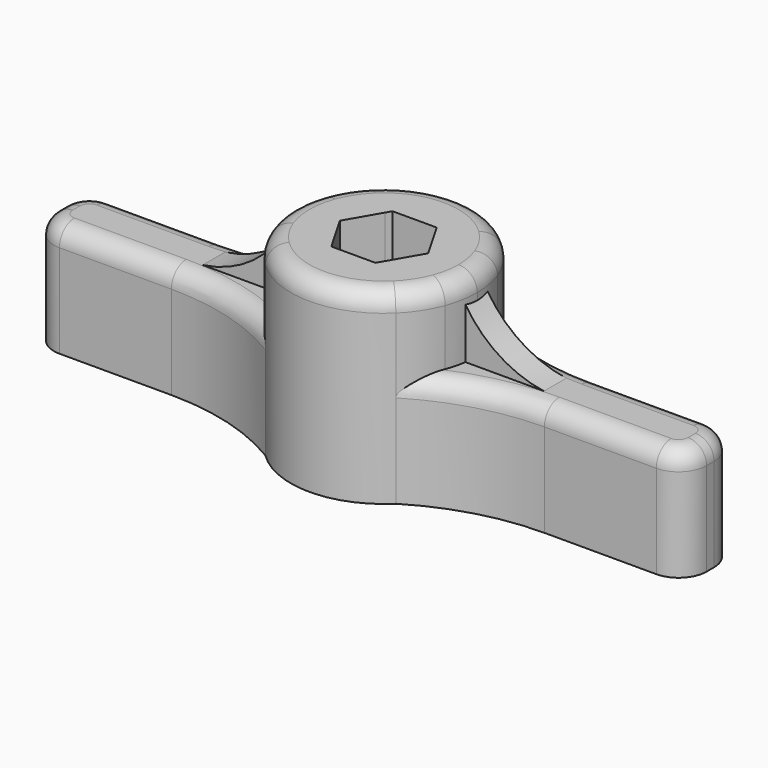
from build123d import *

# Parameters (mm, degrees)
F1_DEPTH = 20
F2_DEPTH = 12
F3_R     = 3
F4_R     = 2
F6_DEPTH = 3


with BuildPart() as f1:
    # F0 (on Top) → F1 (new body)
    with BuildSketch(Plane.XY):
        with BuildLine():
            Line((-2.7276199649, -5.0460615367), (-9.3815706973, -5.0460615367))
            ThreePointArc((-9.3815706973, -5.0460615367), (-8.3933511583, -7.0038733026), (-7.002121491, -8.6991858936))
            ThreePointArc((-7.002121491, -8.6991858936), (-0.0140736997, -11.5460615367), (6.9739740916, -8.6991858936))
            ThreePointArc((6.9739740916, -8.6991858936), (8.3652037588, -7.0038733026), (9.3534232979, -5.0460615367))
            Line((9.3534232979, -5.0460615367), (2.6994725655, -5.0460615367))
            Line((2.6994725655, -5.0460615367), (2.353062404, -5.6460615367))
            Line((2.353062404, -5.6460615367), (-2.3812098034, -5.6460615367))
            Line((-2.3812098034, -5.6460615367), (-2.7276199649, -5.0460615367))
        make_face()
        with BuildLine():
            Line((-2.7276199649, 1.9539384633), (-9.3815706973, 1.9539384633))
            ThreePointArc((-9.3815706973, 1.9539384633), (-10.0140736997, -1.5460615367), (-9.3815706973, -5.0460615367))
            Line((-9.3815706973, -5.0460615367), (-2.7276199649, -5.0460615367))
            Line((-2.7276199649, -5.0460615367), (-4.7483459071, -1.5460615367))
            Line((-4.7483459071, -1.5460615367), (-2.7276199649, 1.9539384633))
        make_face()
        with BuildLine():
            ThreePointArc((-7.002121491, 5.6070628203), (-8.3933511583, 3.9117502293), (-9.3815706973, 1.9539384633))
            Line((-9.3815706973, 1.9539384633), (-2.7276199649, 1.9539384633))
            Line((-2.7276199649, 1.9539384633), (-2.3812098034, 2.5539384633))
            Line((-2.3812098034, 2.5539384633), (2.353062404, 2.5539384633))
            Line((2.353062404, 2.5539384633), (2.6994725655, 1.9539384633))
            Line((2.6994725655, 1.9539384633), (9.3534232979, 1.9539384633))
            ThreePointArc((9.3534232979, 1.9539384633), (8.3652037588, 3.9117502293), (6.9739740916, 5.6070628203))
            ThreePointArc((6.9739740916, 5.6070628203), (-0.0140736997, 8.4539384633), (-7.002121491, 5.6070628203))
        make_face()
        with BuildLine():
            Line((9.3534232979, 1.9539384633), (2.6994725655, 1.9539384633))
            Line((2.6994725655, 1.9539384633), (4.7201985076, -1.5460615367))
            Line((4.7201985076, -1.5460615367), (2.6994725655, -5.0460615367))
            Line((2.6994725655, -5.0460615367), (9.3534232979, -5.0460615367))
            ThreePointArc((9.3534232979, -5.0460615367), (9.8265301937, -3.3244076818), (9.9859263003, -1.5460615367))
            ThreePointArc((9.9859263003, -1.5460615367), (9.8265301937, 0.2322846085), (9.3534232979, 1.9539384633))
        make_face()
    extrude(amount=F1_DEPTH)

    # F0 (on Top) → F2 (join)
    with BuildSketch(Plane.XY):
        with BuildLine():
            ThreePointArc((9.3534232979, -5.0460615367), (8.3652037588, -7.0038733026), (6.9739740916, -8.6991858936))
            ThreePointArc((6.9739740916, -8.6991858936), (13.2284079346, -5.9766630079), (19.9859263003, -5.0460615367))
            Line((19.9859263003, -5.0460615367), (9.3534232979, -5.0460615367))
        make_face()
        with BuildLine():
            ThreePointArc((19.9859263003, 1.9539384633), (13.2284079346, 2.8845399345), (6.9739740916, 5.6070628203))
            ThreePointArc((6.9739740916, 5.6070628203), (8.3652037588, 3.9117502293), (9.3534232979, 1.9539384633))
            Line((9.3534232979, 1.9539384633), (19.9859263003, 1.9539384633))
        make_face()
        with BuildLine():
            Line((19.9859263003, 1.9539384633), (9.3534232979, 1.9539384633))
            ThreePointArc((9.3534232979, 1.9539384633), (9.8265301937, 0.2322846085), (9.9859263003, -1.5460615367))
            ThreePointArc((9.9859263003, -1.5460615367), (9.8265301937, -3.3244076818), (9.3534232979, -5.0460615367))
            Line((9.3534232979, -5.0460615367), (19.9859263003, -5.0460615367))
            Line((19.9859263003, -5.0460615367), (34.9859263003, -5.0460615367))
            Line((34.9859263003, -5.0460615367), (34.9859263003, 1.9539384633))
            Line((34.9859263003, 1.9539384633), (19.9859263003, 1.9539384633))
        make_face()
        with BuildLine():
            Line((-9.3815706973, -5.0460615367), (-20.0140736997, -5.0460615367))
            ThreePointArc((-20.0140736997, -5.0460615367), (-13.2565553341, -5.9766630079), (-7.002121491, -8.6991858936))
            ThreePointArc((-7.002121491, -8.6991858936), (-8.3933511583, -7.0038733026), (-9.3815706973, -5.0460615367))
        make_face()
        with BuildLine():
            Line((-20.0140736997, 1.9539384633), (-35.0140736997, 1.9539384633))
            Line((-35.0140736997, 1.9539384633), (-35.0140736997, -5.0460615367))
            Line((-35.0140736997, -5.0460615367), (-20.0140736997, -5.0460615367))
            Line((-20.0140736997, -5.0460615367), (-9.3815706973, -5.0460615367))
            ThreePointArc((-9.3815706973, -5.0460615367), (-10.0140736997, -1.5460615367), (-9.3815706973, 1.9539384633))
            Line((-9.3815706973, 1.9539384633), (-20.0140736997, 1.9539384633))
        make_face()
        with BuildLine():
            ThreePointArc((-7.002121491, 5.6070628203), (-13.2565553341, 2.8845399345), (-20.0140736997, 1.9539384633))
            Line((-20.0140736997, 1.9539384633), (-9.3815706973, 1.9539384633))
            ThreePointArc((-9.3815706973, 1.9539384633), (-8.3933511583, 3.9117502293), (-7.002121491, 5.6070628203))
        make_face()
    extrude(amount=F2_DEPTH)

    # F3
    f3_edges = [f1.edges().sort_by_distance(p)[0] for p in [
        (-35.014074, 1.953938, 6),
        (-35.014074, -5.046062, 6),
        (34.985926, -5.046062, 6),
        (34.985926, 1.953938, 6),
    ]]
    fillet(f3_edges, radius=F3_R)

    # F4
    f4_edges = [f1.edges().sort_by_distance(p)[0] for p in [
        (-26.014074, -5.046062, 12),
        (13.228408, -5.976663, 12),
        (-9.381571, 1.953938, 20),
    ]]
    fillet(f4_edges, radius=F4_R)

    # F5 (on Front) → F6 (join)
    with BuildSketch(Plane.XZ):
        with BuildLine():
            ThreePointArc((-9.5652169443, 17.9530884136), (-13.9630221988, 13.5080377527), (-19.999999553, 11.8789058179))
            Line((-19.999999553, 11.8789058179), (-9.5652169443, 11.8789058179))
            Line((-9.5652169443, 11.8789058179), (-9.5652169443, 17.9530884136))
        make_face()
        with BuildLine():
            ThreePointArc((20.000000447, 11.8789058179), (13.9630230929, 13.5080377527), (9.5652178383, 17.9530884136))
            Line((9.5652178383, 17.9530884136), (9.5652178383, 11.8789058179))
            Line((9.5652178383, 11.8789058179), (20.000000447, 11.8789058179))
        make_face()
    extrude(amount=F6_DEPTH)


solid = f1.part
